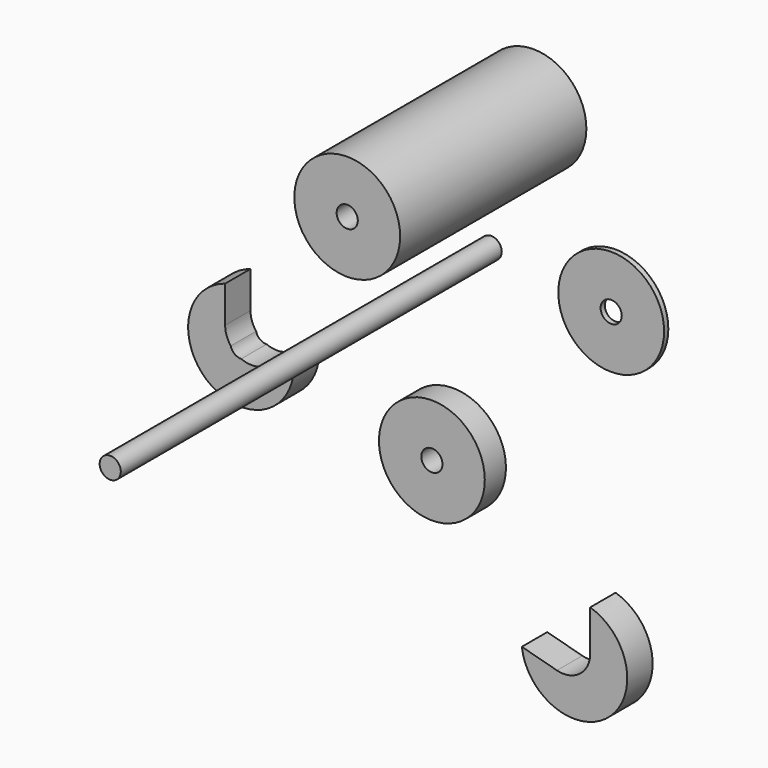
from build123d import *

# Parameters (mm, degrees)
F0_R      = 20
F0_R_2    = 4
F1_DEPTH  = 10
F3_DEPTH  = 12
F4_R      = 20
F4_R_2    = 4
F5_DEPTH  = 2
F6_R      = 20
F6_R_2    = 4
F7_DEPTH  = 88
F9_DEPTH  = 12
F10_R     = 4
F11_DEPTH = 180
F12_R     = 10
F13_DEPTH = 58


with BuildPart() as f1:
    # F0 (on Front) → F1 (new body)
    with BuildSketch(Plane.XZ):
        Circle(F0_R)
        Circle(F0_R_2, mode=Mode.SUBTRACT)
    extrude(amount=F1_DEPTH)


with BuildPart() as f3:
    # F2 (on Front) → F3 (new body)
    with BuildSketch(Plane.XZ):
        with BuildLine():
            Line((-76.548523, 20.870079), (-76.548523, 34.735962))
            ThreePointArc((-76.548523, 34.735962), (-82.723751, -0.209889), (-50.566918, 14.799575))
            Line((-50.566918, 14.799575), (-63.960332, 11.210821))
            ThreePointArc((-63.960332, 11.210821), (-67.237901, 10.89387), (-70.440722, 11.658631))
            ThreePointArc((-70.440722, 11.658631), (-72.983568, 12.483764), (-74.438723, 14.726405))
            ThreePointArc((-74.438723, 14.726405), (-76.006377, 17.622157), (-76.548523, 20.870079))
        make_face()
    extrude(amount=F3_DEPTH)


with BuildPart() as f5:
    # F4 (on Front) → F5 (new body)
    with BuildSketch(Plane.XZ):
        with Locations((61.382338, 66.127263)):
            Circle(F4_R)
        with Locations((61.382338, 66.127263)):
            Circle(F4_R_2, mode=Mode.SUBTRACT)
    extrude(amount=F5_DEPTH)


with BuildPart() as f7:
    # F6 (on Front) → F7 (new body)
    with BuildSketch(Plane.XZ):
        with Locations((-40, 64)):
            Circle(F6_R)
        with Locations((-40, 64)):
            Circle(F6_R_2, mode=Mode.SUBTRACT)
    extrude(amount=-F7_DEPTH)

    # F12 (on Top) → F13 (cut)
    with BuildSketch(Plane.XY):
        with Locations((-40, 44)):
            Circle(F12_R)
    extrude(amount=F13_DEPTH, mode=Mode.SUBTRACT)


with BuildPart() as f9:
    # F8 (on Front) → F9 (new body)
    with BuildSketch(Plane.XZ):
        with BuildLine():
            Line((48.864472, -53.187266), (35.602868, -49.63383))
            ThreePointArc((35.602868, -49.63383), (68.250684, -62.556412), (61.452662, -28.108482))
            Line((61.452662, -28.108482), (61.452662, -43.528008))
            ThreePointArc((61.452662, -43.528008), (57.540277, -51.461541), (48.864472, -53.187266))
        make_face()
    extrude(amount=F9_DEPTH)


with BuildPart() as f11:
    # F10 (on Front) → F11 (new body)
    with BuildSketch(Plane.XZ):
        with Locations((14.414172, 71.330287)):
            Circle(F10_R)
    extrude(amount=F11_DEPTH)


solid = Compound([f1.part, f3.part, f5.part, f7.part, f9.part, f11.part])
